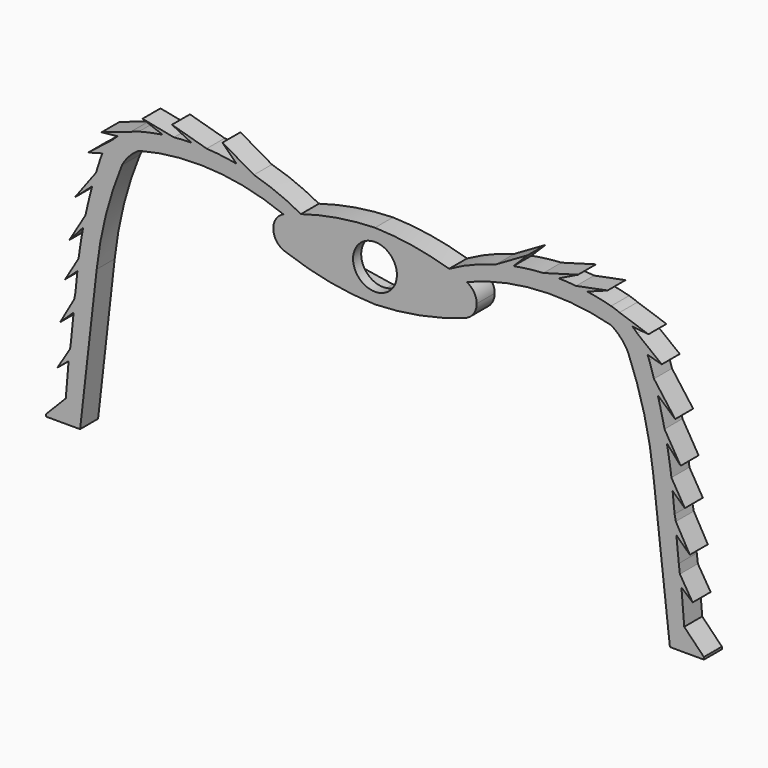
from build123d import *

# Parameters (mm, degrees)
PAD034_DEPTH       = 4
PAD032_DEPTH       = 4
POCKET003027_DEPTH = 2.2
PAD033_DEPTH       = 4
SKETCH054_R        = 3.9
POCKET003028_DEPTH = 10


with BuildPart() as central_leg_insect_add:
    # Sketch055 → Pad034 (new body)
    with BuildSketch(Plane.XZ.offset(-43.7)):
        Polygon((-58.503296, -18.004301), (-53.997036, -18.004301), (-48.744877, 15.965196), (-44.5658, 27.943165), (-41.53833, 30.02603), (-31.626242, 31.40176), (-21.017805, 29.65671), (-18.990362, 30.401161), (-27.13097, 35.111233), (-22.936073, 30.916338), (-29.003351, 32.984856), (-36.116627, 34.99157), (-32.000511, 32.969288), (-34.972557, 32.969288), (-41.352551, 34.221657), (-37, 32.591213), (-43, 31.631081), (-48.636986, 29.73181), (-44, 30.22826), (-46, 29.721722), (-51, 25.793291), (-47.464714, 26.759798), (-49.314915, 23.492535), (-53.390827, 18), (-50, 21), (-51, 16.646269), (-54.355499, 11), (-51.685394, 14), (-52.498241, 9), (-55.106018, 4.606695), (-52.495518, 7), (-53.502594, 2), (-56, -2.398534), (-53.492668, 0), (-54.22747, -6), (-56.500393, -9.69598), (-54.497387, -8), (-55, -14), (-58.503296, -17.601286), align=None)
    extrude(amount=-PAD034_DEPTH)


with BuildPart() as quarter_central_leg_servo_support:
    # Sketch050 → Pad032 (new body)
    with BuildSketch(Plane(origin=(0, 47.7, 24.6), x_dir=(-1, 0, 0), z_dir=(0, 1, 0))):
        with BuildLine():
            ThreePointArc((15.732627, 3), (7.987175, 5.135172), (0, 6.004658))
            Line((0, 6.004658), (0, 4.275313))
            Line((0, 4.275313), (0, 0))
            Line((16.774147, 0), (0, 0))
            Line((18.088162, 0), (16.774147, 0))
            ThreePointArc((18.088162, 0), (17.428911, 1.907128), (15.732627, 3))
        make_face()
    extrude(amount=-PAD032_DEPTH)

    # Sketch051 → Pocket003027 (cut)
    with BuildSketch(Plane(origin=(0, 47.7, 24.6), x_dir=(-1, 0, 0), z_dir=(0, 1, 0))):
        with BuildLine():
            Line((0, 4.49111), (15.744728, 2.000001))
            ThreePointArc((17.134156, 0), (16.75271, 1.217632), (15.744728, 2.000001))
            Line((17.134156, 0), (0, 0))
            Line((0, 0), (0, 4.49111))
        make_face()
    extrude(amount=-POCKET003027_DEPTH, mode=Mode.SUBTRACT)


with BuildPart() as half_leg_insect:
    # Part__Mirroring001: instance of quarter_central_leg_servo_support
    add(quarter_central_leg_servo_support.part.mirror(Plane(origin=(0, 0, 24.6), x_dir=(0, 1, 0), z_dir=(0, 0, 1))))

    # Fusion007017: union quarter_central_leg_servo_support
    add(quarter_central_leg_servo_support.part)

    # Sketch052 → Pad033 (new body)
    with BuildSketch(Plane(origin=(0, 47.7, 0), x_dir=(-1, 0, 0), z_dir=(0, 1, 0))):
        with BuildLine():
            Line((52.452988, -18.000002), (58.497849, -18.000002))
            Line((58.497849, -18.000002), (58.497849, -17.584217))
            ThreePointArc((54.988709, -14), (56.535613, -15.995425), (58.497849, -17.584217))
            Line((54.988709, -14), (52.759255, 8.35829))
            ThreePointArc((52.759255, 8.35829), (51.202034, 17.133916), (48.77817, 25.710712))
            ThreePointArc((48.77817, 25.710712), (46.1643, 29.690829), (42.000002, 32))
            ThreePointArc((42.000002, 32), (27.145674, 33.002324), (13.00001, 28.359486))
            Line((16, 27.29138), (13.00001, 28.359486))
            ThreePointArc((41.999998, 28.999997), (28.860359, 30.270585), (16, 27.29138))
            ThreePointArc((44.999996, 25.769916), (43.714535, 27.584213), (41.999998, 28.999997))
            ThreePointArc((49.501895, 8.000017), (47.87481, 17.043019), (44.999996, 25.769916))
            Line((52.452988, -18.000002), (49.501895, 8.000017))
        make_face()
    extrude(amount=-PAD033_DEPTH)

    # Fusion007018: union central_leg_insect_add
    add(central_leg_insect_add.part)


with BuildPart() as obj1:
    # Part__Mirroring002: instance of half_leg_insect
    add(half_leg_insect.part.mirror(Plane(origin=(0, 0, 0), x_dir=(0, -1, 0), z_dir=(1, 0, 0))))

    # Fusion007019: union half_leg_insect
    add(half_leg_insect.part)

    # Sketch054 → Pocket003028 (cut)
    with BuildSketch(Plane(origin=(0, 45.5, 0), x_dir=(-1, 0, 0), z_dir=(0, 1, 0))):
        with Locations((0, 24.473736)):
            Circle(SKETCH054_R)
    extrude(amount=-POCKET003028_DEPTH, mode=Mode.SUBTRACT)


solid = obj1.part
